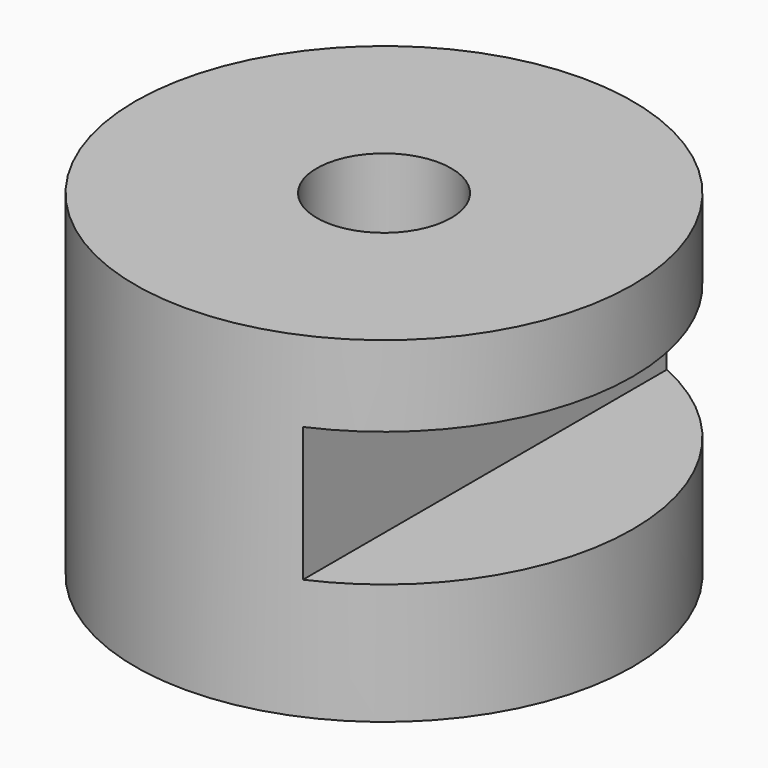
from build123d import *

# Parameters (mm, degrees)
BOX001_W          = 30
BOX001_H          = 70
BOX001_DEPTH      = 10
CYLINDER003_R     = 5
CYLINDER003_DEPTH = 40
CYLINDER002_R     = 18.5
CYLINDER002_DEPTH = 25


with BuildPart() as cube001:
    # Box001 → Box001 (new body)
    with BuildSketch(Plane(origin=(7.5, -20, 9), x_dir=(1, 0, 0), z_dir=(0, 0, 1))):
        with Locations((15, 35)):
            Rectangle(BOX001_W, BOX001_H)
    extrude(amount=BOX001_DEPTH)


with BuildPart() as cylinder003:
    # Cylinder003 → Cylinder003 (new body)
    with BuildSketch(Plane.XY.offset(-10)):
        Circle(CYLINDER003_R)
    extrude(amount=CYLINDER003_DEPTH)


with BuildPart() as mount:
    # Cylinder002 → Cylinder002 (new body)
    with BuildSketch(Plane.XY):
        Circle(CYLINDER002_R)
    extrude(amount=CYLINDER002_DEPTH)

    # Cut002: cut Cylinder003
    add(cylinder003.part, mode=Mode.SUBTRACT)

    # Cut003: cut Cube001
    add(cube001.part, mode=Mode.SUBTRACT)


solid = mount.part
